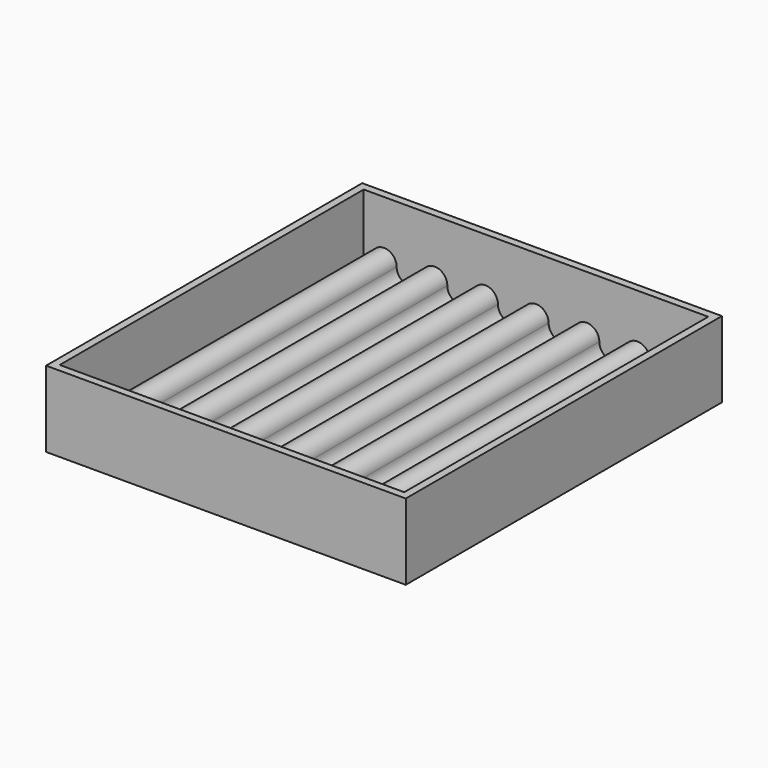
from build123d import *

# Parameters (mm, degrees)
F1_DEPTH = 75
F2_W     = 151.181809
F2_H     = 41.148275
F2_W_2   = 68
F2_H_2   = 15.074213
F3_DEPTH = 75.001
F5_DEPTH = 12.5
F6_W     = 71
F6_H     = 78
F6_W_2   = 68
F6_H_2   = 75
F7_DEPTH = 15
F8_R     = 1.612421
F8_R_2   = 1.5
F9_DEPTH = 3


with BuildPart() as f1:
    # F0 (on Front) → F1 (new body)
    with BuildSketch(Plane.XZ):
        with BuildLine():
            ThreePointArc((-17.728643, 3.66031), (-20.228643, 1.16031), (-22.728643, 3.66031))
            ThreePointArc((-22.728643, 3.66031), (-25.228643, 6.16031), (-27.728643, 3.66031))
            Line((-27.728643, 3.66031), (-27.07932, 3.66031))
            ThreePointArc((-27.07932, 3.66031), (-25.228643, 5.510987), (-23.377966, 3.66031))
            ThreePointArc((-23.377966, 3.66031), (-20.228643, 0.510987), (-17.07932, 3.66031))
            ThreePointArc((-17.07932, 3.66031), (-15.228643, 5.510987), (-13.377966, 3.66031))
            ThreePointArc((-13.377966, 3.66031), (-10.228643, 0.510987), (-7.07932, 3.66031))
            ThreePointArc((-7.07932, 3.66031), (-5.228643, 5.510987), (-3.377966, 3.66031))
            ThreePointArc((-3.377966, 3.66031), (-0.228643, 0.510987), (2.92068, 3.66031))
            ThreePointArc((2.92068, 3.66031), (4.771357, 5.510987), (6.622034, 3.66031))
            ThreePointArc((6.622034, 3.66031), (9.771357, 0.510987), (12.92068, 3.66031))
            ThreePointArc((12.92068, 3.66031), (14.771357, 5.510987), (16.622034, 3.66031))
            ThreePointArc((16.622034, 3.66031), (19.771357, 0.510987), (22.92068, 3.66031))
            ThreePointArc((22.92068, 3.66031), (24.771357, 5.510987), (26.622034, 3.66031))
            ThreePointArc((26.622034, 3.66031), (29.771357, 0.510987), (32.92068, 3.66031))
            ThreePointArc((32.92068, 3.66031), (34.771357, 5.510987), (36.622034, 3.66031))
            ThreePointArc((36.622034, 3.66031), (39.771357, 0.510987), (42.92068, 3.66031))
            ThreePointArc((42.92068, 3.66031), (44.771357, 5.510987), (46.622034, 3.66031))
            ThreePointArc((46.622034, 3.66031), (49.771357, 0.510987), (52.92068, 3.66031))
            ThreePointArc((52.92068, 3.66031), (54.771357, 5.510987), (56.622034, 3.66031))
            ThreePointArc((56.622034, 3.66031), (59.771357, 0.510987), (62.92068, 3.66031))
            ThreePointArc((62.92068, 3.66031), (64.771357, 5.510987), (66.622034, 3.66031))
            ThreePointArc((66.622034, 3.66031), (69.771357, 0.510987), (72.92068, 3.66031))
            Line((72.92068, 3.66031), (72.271357, 3.66031))
            ThreePointArc((72.271357, 3.66031), (69.771357, 1.16031), (67.271357, 3.66031))
            ThreePointArc((67.271357, 3.66031), (64.771357, 6.16031), (62.271357, 3.66031))
            ThreePointArc((62.271357, 3.66031), (59.771357, 1.16031), (57.271357, 3.66031))
            ThreePointArc((57.271357, 3.66031), (54.771357, 6.16031), (52.271357, 3.66031))
            ThreePointArc((52.271357, 3.66031), (49.771357, 1.16031), (47.271357, 3.66031))
            ThreePointArc((47.271357, 3.66031), (44.771357, 6.16031), (42.271357, 3.66031))
            ThreePointArc((42.271357, 3.66031), (39.771357, 1.16031), (37.271357, 3.66031))
            ThreePointArc((37.271357, 3.66031), (34.771357, 6.16031), (32.271357, 3.66031))
            ThreePointArc((32.271357, 3.66031), (29.771357, 1.16031), (27.271357, 3.66031))
            ThreePointArc((27.271357, 3.66031), (24.771357, 6.16031), (22.271357, 3.66031))
            ThreePointArc((22.271357, 3.66031), (19.771357, 1.16031), (17.271357, 3.66031))
            ThreePointArc((17.271357, 3.66031), (14.771357, 6.16031), (12.271357, 3.66031))
            ThreePointArc((12.271357, 3.66031), (9.771357, 1.16031), (7.271357, 3.66031))
            ThreePointArc((7.271357, 3.66031), (4.771357, 6.16031), (2.271357, 3.66031))
            ThreePointArc((2.271357, 3.66031), (-0.228643, 1.16031), (-2.728643, 3.66031))
            ThreePointArc((-2.728643, 3.66031), (-5.228643, 6.16031), (-7.728643, 3.66031))
            ThreePointArc((-7.728643, 3.66031), (-10.228643, 1.16031), (-12.728643, 3.66031))
            ThreePointArc((-12.728643, 3.66031), (-15.228643, 6.16031), (-17.728643, 3.66031))
        make_face()
    extrude(amount=F1_DEPTH)

    # F2 (on Front) → F3 (cut, through all)
    with BuildSketch(Plane.XZ):
        with Locations((32.39454, 4.666497)):
            Rectangle(F2_W, F2_H)
        with Locations((24.773864, 2.665582)):
            Rectangle(F2_W_2, F2_H_2, mode=Mode.SUBTRACT)
    extrude(amount=F3_DEPTH, mode=Mode.SUBTRACT)

    # F4 (on Top) → F5 (cut, symmetric)
    with BuildSketch(Plane.XY):
        with BuildLine():
            ThreePointArc((0.788311, -8), (-0.300077, -6.911613), (-1.388464, -8))
            Line((-1.388464, -8), (-1.388464, -25.884728))
            ThreePointArc((-1.388464, -25.884728), (-0.300077, -26.973116), (0.788311, -25.884728))
            Line((0.788311, -25.884728), (0.788311, -8))
        make_face()
        with BuildLine():
            ThreePointArc((0.788311, -49.115272), (-0.300077, -48.026884), (-1.388464, -49.115272))
            Line((-1.388464, -49.115272), (-1.388464, -67))
            ThreePointArc((-1.388464, -67), (-0.300077, -68.088387), (0.788311, -67))
            Line((0.788311, -67), (0.788311, -49.115272))
        make_face()
        with BuildLine():
            ThreePointArc((10.788311, -49.115272), (9.699923, -48.026884), (8.611536, -49.115272))
            Line((8.611536, -49.115272), (8.611536, -67))
            ThreePointArc((8.611536, -67), (9.699923, -68.088387), (10.788311, -67))
            Line((10.788311, -67), (10.788311, -49.115272))
        make_face()
        with BuildLine():
            ThreePointArc((10.788311, -8), (9.699923, -6.911613), (8.611536, -8))
            Line((8.611536, -8), (8.611536, -25.884728))
            ThreePointArc((8.611536, -25.884728), (9.699923, -26.973116), (10.788311, -25.884728))
            Line((10.788311, -25.884728), (10.788311, -8))
        make_face()
        with BuildLine():
            ThreePointArc((20.788311, -49.115272), (19.699923, -48.026884), (18.611536, -49.115272))
            Line((18.611536, -49.115272), (18.611536, -67))
            ThreePointArc((18.611536, -67), (19.699923, -68.088387), (20.788311, -67))
            Line((20.788311, -67), (20.788311, -49.115272))
        make_face()
        with BuildLine():
            ThreePointArc((20.788311, -8), (19.699923, -6.911613), (18.611536, -8))
            Line((18.611536, -8), (18.611536, -25.884728))
            ThreePointArc((18.611536, -25.884728), (19.699923, -26.973116), (20.788311, -25.884728))
            Line((20.788311, -25.884728), (20.788311, -8))
        make_face()
        with BuildLine():
            ThreePointArc((30.788311, -49.115272), (29.699923, -48.026884), (28.611536, -49.115272))
            Line((28.611536, -49.115272), (28.611536, -67))
            ThreePointArc((28.611536, -67), (29.699923, -68.088387), (30.788311, -67))
            Line((30.788311, -67), (30.788311, -49.115272))
        make_face()
        with BuildLine():
            ThreePointArc((30.788311, -8), (29.699923, -6.911613), (28.611536, -8))
            Line((28.611536, -8), (28.611536, -25.884728))
            ThreePointArc((28.611536, -25.884728), (29.699923, -26.973116), (30.788311, -25.884728))
            Line((30.788311, -25.884728), (30.788311, -8))
        make_face()
        with BuildLine():
            ThreePointArc((40.788311, -49.115272), (39.699923, -48.026884), (38.611536, -49.115272))
            Line((38.611536, -49.115272), (38.611536, -67))
            ThreePointArc((38.611536, -67), (39.699923, -68.088387), (40.788311, -67))
            Line((40.788311, -67), (40.788311, -49.115272))
        make_face()
        with BuildLine():
            ThreePointArc((40.788311, -8), (39.699923, -6.911613), (38.611536, -8))
            Line((38.611536, -8), (38.611536, -25.884728))
            ThreePointArc((38.611536, -25.884728), (39.699923, -26.973116), (40.788311, -25.884728))
            Line((40.788311, -25.884728), (40.788311, -8))
        make_face()
        with BuildLine():
            ThreePointArc((50.788311, -49.115272), (49.699923, -48.026884), (48.611536, -49.115272))
            Line((48.611536, -49.115272), (48.611536, -67))
            ThreePointArc((48.611536, -67), (49.699923, -68.088387), (50.788311, -67))
            Line((50.788311, -67), (50.788311, -49.115272))
        make_face()
        with BuildLine():
            ThreePointArc((50.788311, -8), (49.699923, -6.911613), (48.611536, -8))
            Line((48.611536, -8), (48.611536, -25.884728))
            ThreePointArc((48.611536, -25.884728), (49.699923, -26.973116), (50.788311, -25.884728))
            Line((50.788311, -25.884728), (50.788311, -8))
        make_face()
    extrude(amount=F5_DEPTH, both=True, mode=Mode.SUBTRACT)

    # F6 (on Top) → F7 (join)
    with BuildSketch(Plane.XY):
        with Locations((24.773864, -37.5)):
            Rectangle(F6_W, F6_H)
        with Locations((24.773864, -37.5)):
            Rectangle(F6_W_2, F6_H_2, mode=Mode.SUBTRACT)
    extrude(amount=F7_DEPTH)

    # F8 (on Top) → F9 (cut)
    with BuildSketch(Plane.XY):
        with Locations((-7.613715, -36.865582)):
            Circle(F8_R)
        with Locations((-7.613715, -68.784498)):
            Circle(F8_R)
        with Locations((-7.613715, -4.011886)):
            Circle(F8_R)
        with Locations((57.273864, -7.874033)):
            Circle(F8_R_2)
        with Locations((57.273864, -40.687241)):
            Circle(F8_R_2)
        with Locations((57.273864, -71.219676)):
            Circle(F8_R_2)
    extrude(amount=F9_DEPTH, mode=Mode.SUBTRACT)


solid = f1.part
